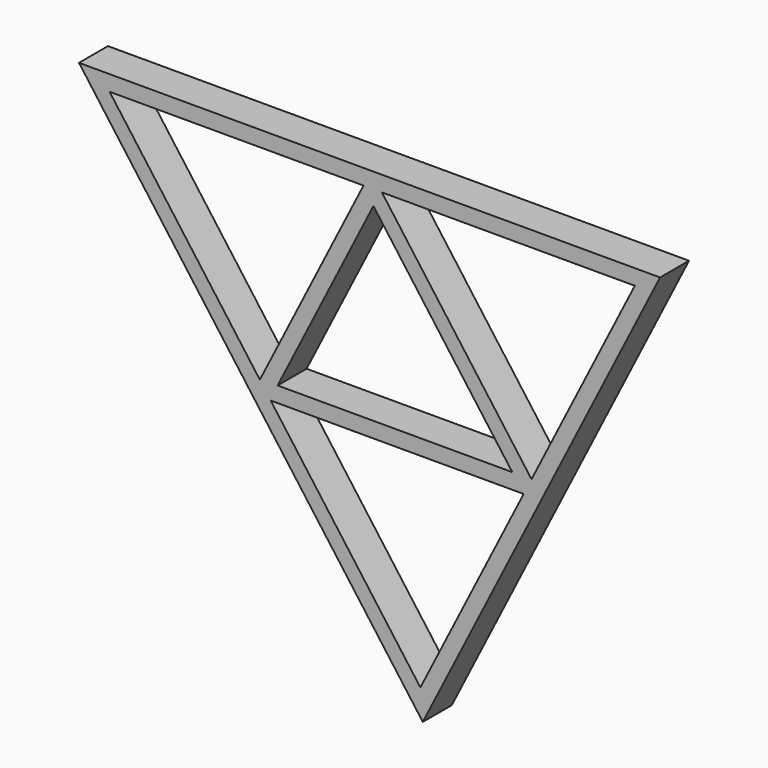
from build123d import *

# Parameters (mm, degrees)
F1_DEPTH = 44.45


with BuildPart() as f1:
    # F0 (on Front) → F1 (new body, symmetric)
    with BuildSketch(Plane.XZ):
        Polygon((661.5404974869, 381.3949429896), (-765.0251025131, 381.3949429896), (79.099398192, -768.6238561666), align=None)
        Polygon((326.6824781895, -195.4501271248), (73.1246535626, -696.0951972392), (-294.3534869259, -195.4501271248), (-295.7008861824, -193.6144565885), (-320.9718422297, -159.1857976611), (-689.7973819747, 343.2949429896), (-68.7614168593, 343.2949429896), (-66.4843197876, 343.2949429896), (-21.4994508811, 343.2949429896), (599.5365142343, 343.2949429896), (345.9786896074, -157.3501271248), align=None, mode=Mode.SUBTRACT)
        Polygon((-320.9718422297, -159.1857976611), (-295.7008861824, -193.6144565885), (-277.3343725797, -157.3501271248), (-42.1430615555, 307.0306135259), (-67.4140176028, 341.4592724533), align=None)
        Polygon((298.7167236292, -157.3501271248), (345.9786896074, -157.3501271248), (-21.4994508811, 343.2949429896), (-66.4843197876, 343.2949429896), (-67.4140176028, 341.4592724533), (-42.1430615555, 307.0306135259), align=None)
        Polygon((-294.3534869259, -195.4501271248), (326.6824781895, -195.4501271248), (345.9786896074, -157.3501271248), (298.7167236292, -157.3501271248), (-277.3343725797, -157.3501271248), (-295.7008861824, -193.6144565885), align=None)
    extrude(amount=F1_DEPTH, both=True)


solid = f1.part
